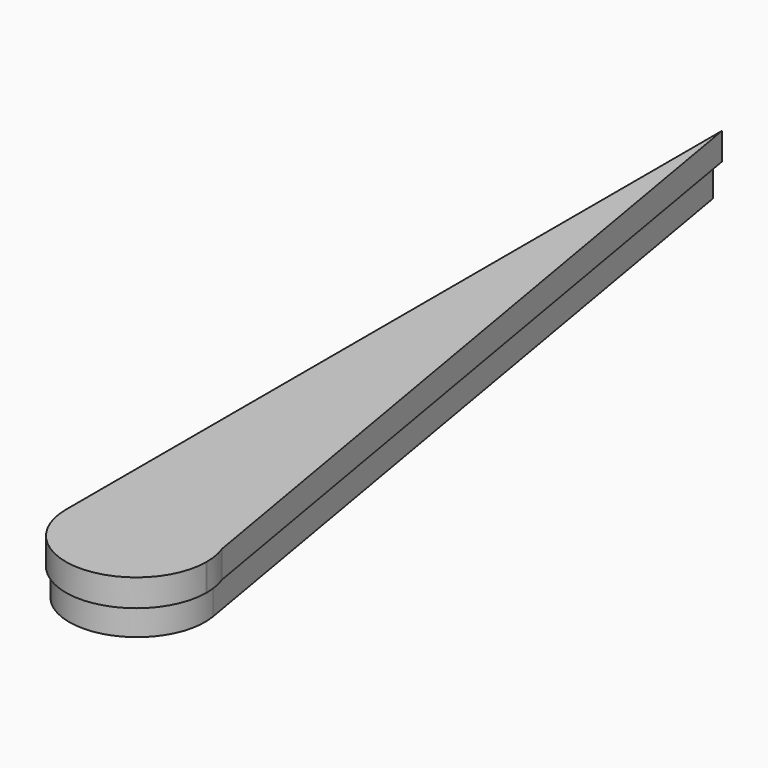
from build123d import *

# Parameters (mm, degrees)
F0_R     = 4
F0_R_2   = 12.5
F0_R_3   = 5
F1_DEPTH = 10
F3_DEPTH = 10
F5_DEPTH = 10


with BuildPart() as f1:
    # F0 (on Top) → F1 (new body, symmetric)
    with BuildSketch(Plane.XY):
        with BuildLine():
            Line((-20.543962, 242.302258), (-19.634877, -57.696364))
            ThreePointArc((-19.634877, -57.696364), (8.59643, -79.952697), (29.853362, -50.961424))
            Line((29.853362, -50.961424), (-20.543962, 242.302258))
        make_face()
        with BuildLine():
            Line((12.65154, -32.619782), (-6.725958, -32.619782))
            ThreePointArc((-6.725958, -32.619782), (-10.256131, -31.160668), (-11.725935, -27.634933))
            Line((-11.725935, -27.634933), (-11.84751, 12.484849))
            ThreePointArc((-11.84751, 12.484849), (-10.38842, 16.030173), (-6.847533, 17.5))
            Line((-6.847533, 17.5), (5.756961, 17.5))
            ThreePointArc((5.756961, 17.5), (8.979214, 16.32323), (10.684726, 13.346836))
            Line((10.684726, 13.346836), (17.579305, -26.772946))
            ThreePointArc((17.579305, -26.772946), (16.47477, -30.842034), (12.65154, -32.619782))
        make_face(mode=Mode.SUBTRACT)
        with Locations((-4.908372, 32.579835)):
            Circle(F0_R, mode=Mode.SUBTRACT)
        with Locations((-4.999281, 62.579835)):
            Circle(F0_R, mode=Mode.SUBTRACT)
        with Locations((5.226905, -55.193478)):
            Circle(F0_R_2, mode=Mode.SUBTRACT)
        with Locations((-10.44188, 125.224027)):
            Circle(F0_R_3, mode=Mode.SUBTRACT)
        with BuildLine():
            Line((-2.713003, 77.5), (-10.050577, 77.5))
            ThreePointArc((-10.050577, 77.5), (-11.462646, 78.083645), (-12.050567, 79.493939))
            Line((-12.050567, 79.493939), (-12.117614, 101.619189))
            ThreePointArc((-12.117614, 101.619189), (-11.533977, 103.037319), (-10.117623, 103.62525))
            Line((-10.117623, 103.62525), (-6.515225, 103.62525))
            ThreePointArc((-6.515225, 103.62525), (-5.226324, 103.154542), (-4.544118, 101.963984))
            Line((-4.544118, 101.963984), (-0.741897, 79.838734))
            ThreePointArc((-0.741897, 79.838734), (-1.183711, 78.211099), (-2.713003, 77.5))
        make_face(mode=Mode.SUBTRACT)
    extrude(amount=F1_DEPTH, both=True)

    # F2 (on Top) → F3 (join)
    with BuildSketch(Plane.XY):
        with BuildLine():
            Line((-17.758185, 116.28598), (-12.327851, 113.452759))
            Line((-12.327851, 113.452759), (-12.327851, -47.830094))
            ThreePointArc((-12.327851, -47.830094), (1.176909, -74.372973), (23.646388, -54.8275))
            Line((23.646388, -54.8275), (-7.25136, 142.539755))
            Line((-7.25136, 142.539755), (-12.327851, 142.539755))
            Line((-12.327851, 142.539755), (-17.758185, 116.28598))
        make_face()
    extrude(amount=F3_DEPTH)

    # F4 (on Top) → F5 (join)
    with BuildSketch(Plane.XY):
        with BuildLine():
            ThreePointArc((29.503305, -46.357701), (0.523158, -29.868779), (-20.85342, -55.457358))
            ThreePointArc((-20.85342, -55.457358), (4.926275, -81.453466), (31.142796, -55.897952))
            Line((31.142796, -55.897952), (29.503305, -46.357701))
        make_face()
        with BuildLine():
            Line((-20.887821, 246.869915), (-20.85342, -55.457358))
            ThreePointArc((-20.85342, -55.457358), (0.523158, -29.868779), (29.503305, -46.357701))
            Line((29.503305, -46.357701), (-20.887821, 246.869915))
        make_face()
        with BuildLine():
            Line((29.503305, -46.357701), (31.142796, -55.897952))
            ThreePointArc((31.142796, -55.897952), (31.145634, -55.676184), (31.14658, -55.454399))
            ThreePointArc((31.14658, -55.454399), (30.732463, -50.832434), (29.503305, -46.357701))
        make_face()
    extrude(amount=F5_DEPTH)


solid = f1.part
